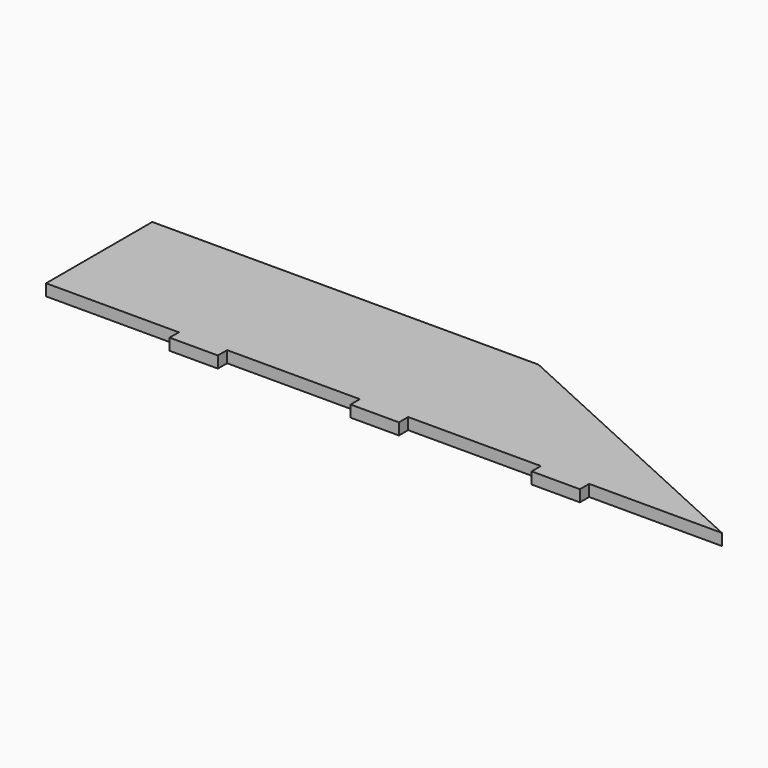
from build123d import *

# Parameters (mm, degrees)
F1_DEPTH = 18.288


with BuildPart() as f1:
    # F0 (on Top) → F1 (new body)
    with BuildSketch(Plane.XY):
        Polygon((-1067.61384, 176.902703), (-1067.61384, -32.647297), (-858.06384, -32.647297), (-858.06384, -50.935297), (-781.86384, -50.935297), (-781.86384, -32.647297), (-572.31384, -32.647297), (-572.31384, -50.935297), (-496.11384, -50.935297), (-496.11384, -32.647297), (-286.56384, -32.647297), (-286.56384, -50.935297), (-210.36384, -50.935297), (-210.36384, -32.647297), (-0.81384, -32.647297), (-458.01384, 176.902703), align=None)
    extrude(amount=F1_DEPTH)


solid = f1.part
